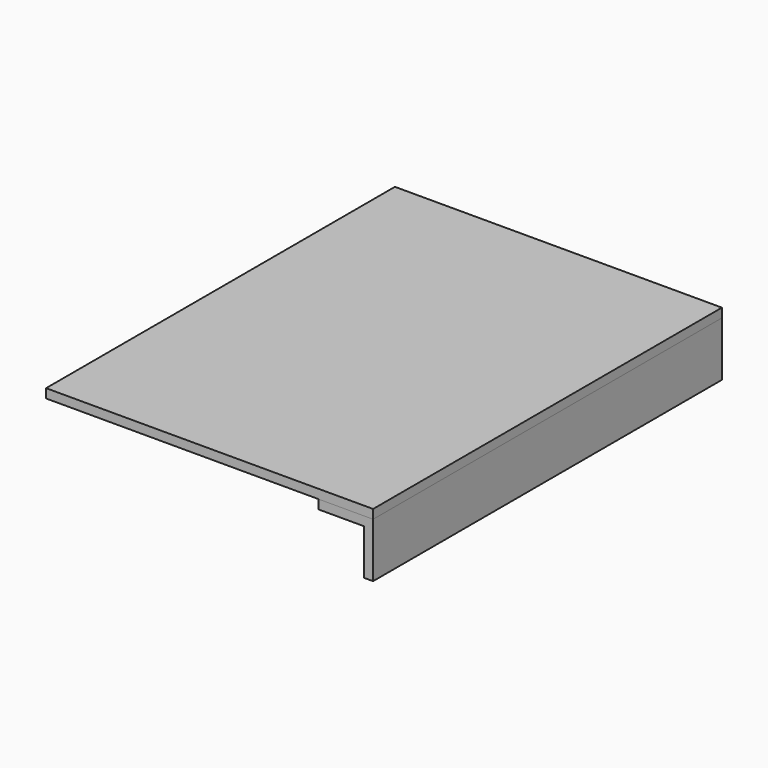
from build123d import *

# Parameters (mm, degrees)
F1_DEPTH = 152.4
F2_DEPTH = 152.4


with BuildPart() as f1:
    # F0 (on Front) → F1 (new body, symmetric)
    with BuildSketch(Plane.XZ):
        Polygon((76.2, -3.175), (114.3, -3.175), (114.3, 3.175), (-114.3, 3.175), (-114.3, -3.175), align=None)
    extrude(amount=F1_DEPTH, both=True)


with BuildPart() as f2:
    # F0 (on Front) → F2 (new body, symmetric)
    with BuildSketch(Plane.XZ):
        Polygon((114.3, -41.275), (114.3, -3.175), (76.2, -3.175), (76.2, -9.525), (107.95, -9.525), (107.95, -41.275), align=None)
    extrude(amount=F2_DEPTH, both=True)


solid = Compound([f1.part, f2.part])
